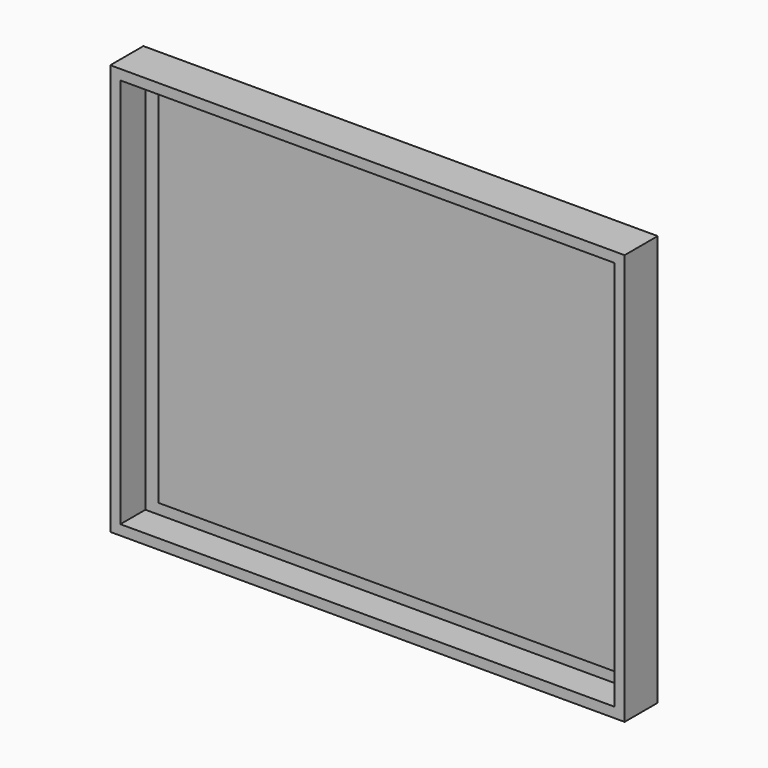
from build123d import *

# Parameters (mm, degrees)
F0_W     = 129.422773
F0_H     = 103.397541
F1_DEPTH = 10.414
F2_T     = -2.54
F3_W     = 115.706771
F3_H     = 90.560776
F4_DEPTH = 1.27


with BuildPart() as f1:
    # F0 (on Front) → F1 (new body)
    with BuildSketch(Plane.XZ):
        with Locations((-2.286001, 2.637691)):
            Rectangle(F0_W, F0_H)
    extrude(amount=F1_DEPTH)

    # F2
    f2_openings = [f1.faces().sort_by_distance(p)[0] for p in [
        (-2.286, -10.414, 2.637692),
    ]]
    offset(amount=F2_T, openings=f2_openings)

    # F3 (on face) → F4 (join)
    with BuildSketch(Plane.XZ.offset(2.54)):
        with Locations((-2.285999, 2.198076)):
            Rectangle(F3_W, F3_H)
    extrude(amount=F4_DEPTH)


solid = f1.part
